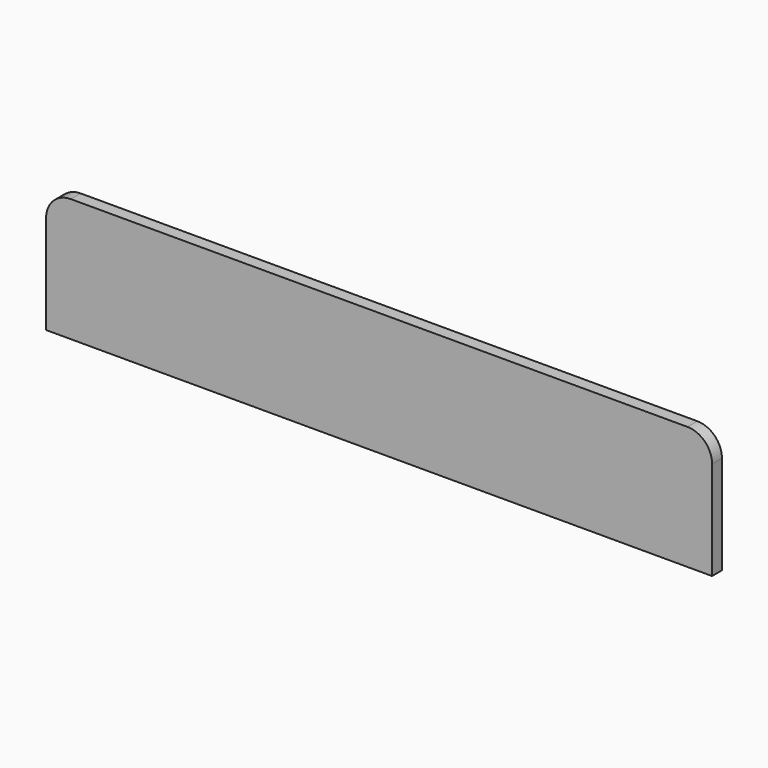
from build123d import *

# Parameters (mm, degrees)
F0_W     = 342.9
F0_H     = 63.5
F1_DEPTH = 6.35
F2_R     = 12.7


with BuildPart() as f1:
    # F0 (on Front) → F1 (new body)
    with BuildSketch(Plane.XZ):
        Rectangle(F0_W, F0_H)
    extrude(amount=F1_DEPTH)

    # F2
    f2_edges = [f1.edges().sort_by_distance(p)[0] for p in [
        (-171.45, -3.175, 31.75),
        (171.45, -3.175, 31.75),
    ]]
    fillet(f2_edges, radius=F2_R)


solid = f1.part
